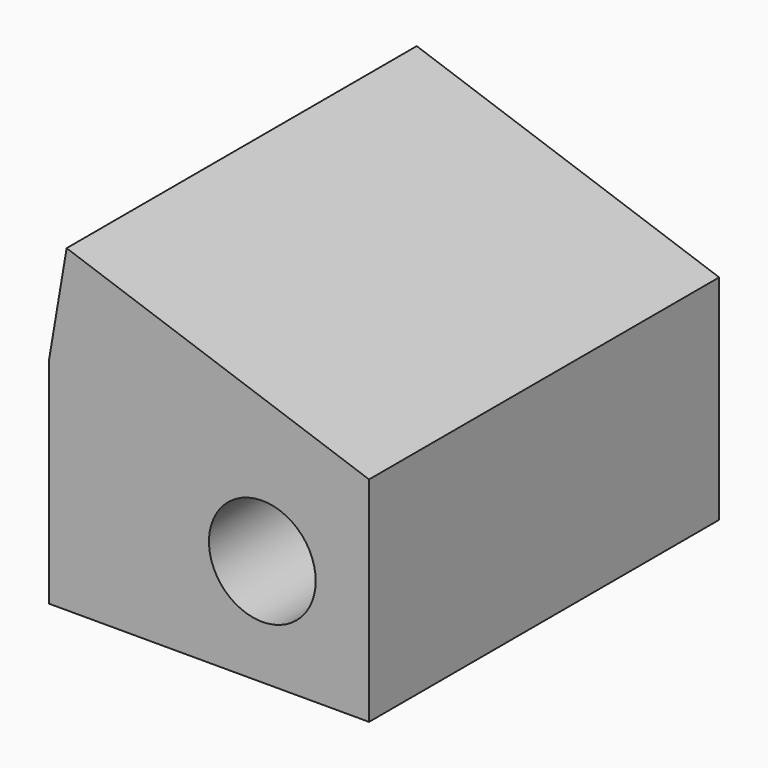
from build123d import *

# Parameters (mm, degrees)
F0_W     = 76.2
F0_H     = 50.8
F1_DEPTH = 104.14
F2_R     = 12.7
F3_DEPTH = 104.14


with BuildPart() as f1:
    # F0 (on Front) → F1 (new body)
    with BuildSketch(Plane.XZ):
        with Locations((38.1, 25.4)):
            Rectangle(F0_W, F0_H)
        Polygon((4.233333, 75.844738), (0, 50.8), (76.2, 50.8), align=None)
    extrude(amount=F1_DEPTH)

    # F2 (on face) → F3 (cut)
    with BuildSketch(Plane.XZ.offset(104.14)):
        with Locations((50.8, 25.4)):
            Circle(F2_R)
    extrude(amount=-F3_DEPTH, mode=Mode.SUBTRACT)


solid = f1.part
